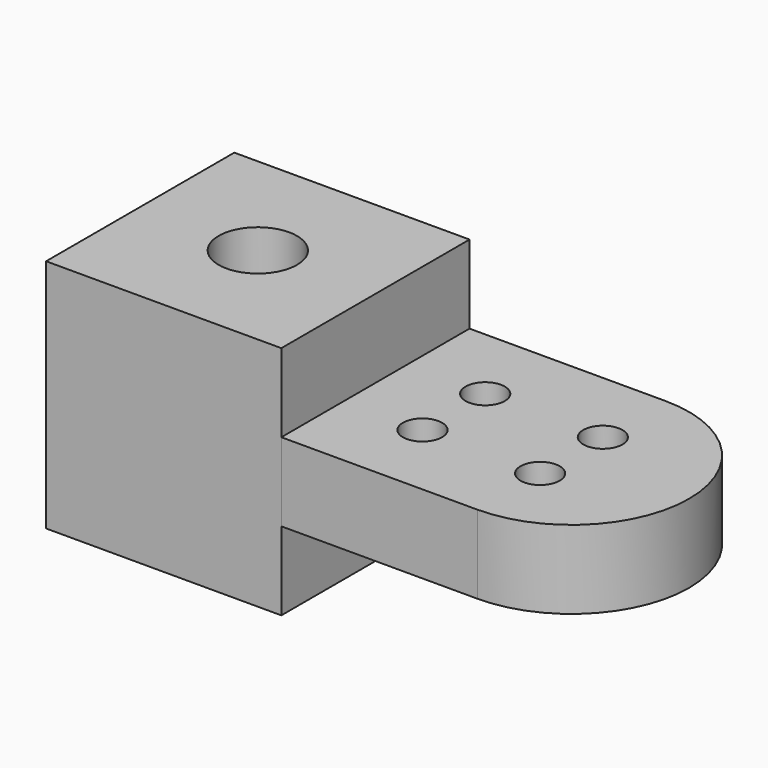
from build123d import *

# Parameters (mm, degrees)
F0_W     = 38.1
F0_H     = 38.1
F1_DEPTH = 38.1
F2_DEPTH = 25.4
F3_W     = 60.299417
F3_H     = 12.7
F4_DEPTH = 38.101
F5_R     = 6.35
F6_DEPTH = 38.101
F7_R     = 3.175
F8_DEPTH = 25.401


with BuildPart() as f1:
    # F0 (on Top) → F1 (new body)
    with BuildSketch(Plane.XY):
        with Locations((19.05, 19.05)):
            Rectangle(F0_W, F0_H)
    extrude(amount=F1_DEPTH)

    # F5 (on face) → F6 (cut, through all)
    with BuildSketch(Plane.XY.offset(38.1)):
        with Locations((19.05, 19.05)):
            Circle(F5_R)
    extrude(amount=-F6_DEPTH, mode=Mode.SUBTRACT)


with BuildPart() as f2:
    # F0 (on Top) → F2 (new body)
    with BuildSketch(Plane.XY):
        with BuildLine():
            Line((38.1, 38.1), (38.1, 0))
            Line((38.1, 0), (69.85, 0))
            ThreePointArc((69.85, 0), (88.9, 19.05), (69.85, 38.1))
            Line((69.85, 38.1), (38.1, 38.1))
        make_face()
    extrude(amount=F2_DEPTH)

    # F3 (on Front) → F4 (cut, through all)
    with BuildSketch(Plane.XZ):
        with Locations((68.249708, 6.35)):
            Rectangle(F3_W, F3_H)
    extrude(amount=-F4_DEPTH, mode=Mode.SUBTRACT)

    # F7 (on face) → F8 (cut, through all)
    with BuildSketch(Plane.XY.offset(25.4)):
        with Locations((50.8, 25.4)):
            Circle(F7_R)
        with Locations((69.85, 25.4)):
            Circle(F7_R)
        with Locations((50.8, 12.7)):
            Circle(F7_R)
        with Locations((69.85, 12.7)):
            Circle(F7_R)
    extrude(amount=-F8_DEPTH, mode=Mode.SUBTRACT)


solid = Compound([f1.part, f2.part])
